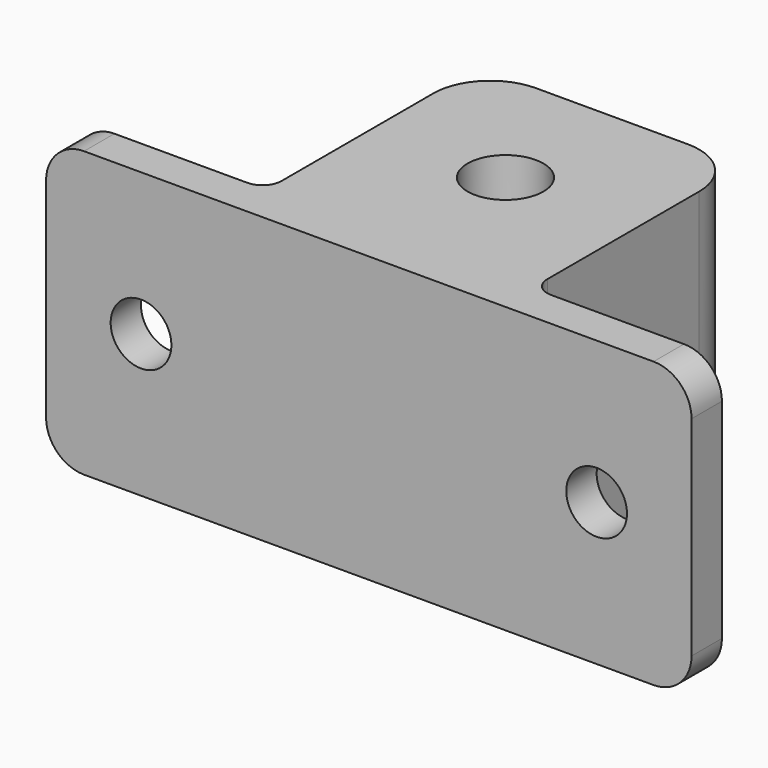
from build123d import *

# Parameters (mm, degrees)
SKETCH_R        = 2
PAD_DEPTH       = 15
SKETCH001_R     = 4.7
POCKET_DEPTH    = 10
SKETCH002_R     = 1.6
POCKET001_DEPTH = 2.001
FILLET_R        = 2
FILLET001_R     = 3
FILLET002_R     = 1


with BuildPart() as part:
    # Sketch → Pad (new body)
    with BuildSketch(Plane.XY):
        Polygon((0, 0), (34, 0), (34, 2), (24, 2), (24, 16), (10, 16), (10, 2), (0, 2), align=None)
        with Locations((17, 9)):
            Circle(SKETCH_R, mode=Mode.SUBTRACT)
    extrude(amount=PAD_DEPTH)

    # Sketch001 (on Face10 of Pad) → Pocket (cut)
    with BuildSketch(Plane(origin=(0, 0, 0), x_dir=(1, 0, 0), z_dir=(0, 0, -1))):
        with Locations((17, -9)):
            Circle(SKETCH001_R)
    extrude(amount=-POCKET_DEPTH, mode=Mode.SUBTRACT)

    # Sketch002 (on Face7 of Pocket) → Pocket001 (cut, through all)
    with BuildSketch(Plane(origin=(0, 2, 0), x_dir=(-1, 0, 0), z_dir=(0, 1, 0))):
        with Locations((-29, 7.5)):
            Circle(SKETCH002_R)
        with Locations((-5, 7.5)):
            Circle(SKETCH002_R)
    extrude(amount=-POCKET001_DEPTH, mode=Mode.SUBTRACT)

    # Fillet
    fillet_edges = [part.edges().sort_by_distance(p)[0] for p in [
        (34, 1, 15),
        (34, 1, 0),
        (0, 1, 15),
        (0, 1, 0),
    ]]
    fillet(fillet_edges, radius=FILLET_R)

    # Fillet001
    fillet001_edges = [part.edges().sort_by_distance(p)[0] for p in [
        (24, 16, 7.5),
        (10, 16, 7.5),
    ]]
    fillet(fillet001_edges, radius=FILLET001_R)

    # Fillet002
    fillet002_edges = [part.edges().sort_by_distance(p)[0] for p in [
        (24, 2, 7.5),
        (10, 2, 7.5),
    ]]
    fillet(fillet002_edges, radius=FILLET002_R)


solid = part.part
